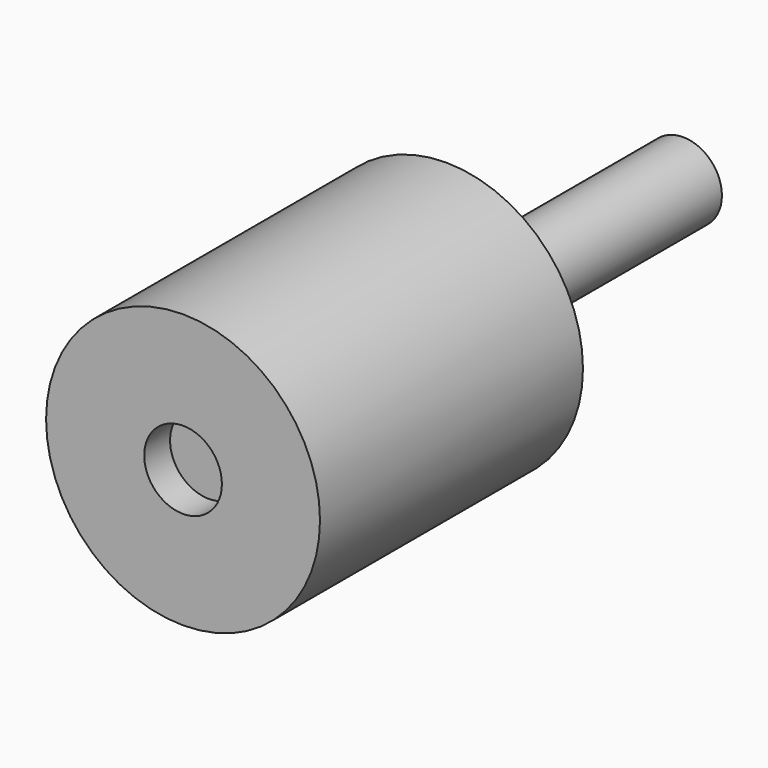
from build123d import *

# Parameters (mm, degrees)
F0_R     = 13.75
F0_R_2   = 3.9
F1_DEPTH = 33
F2_DEPTH = 29.75


with BuildPart() as f1:
    # F0 (on Front) → F1 (new body)
    with BuildSketch(Plane.XZ):
        Circle(F0_R)
        Circle(F0_R_2, mode=Mode.SUBTRACT)
    extrude(amount=F1_DEPTH)

    # F0 (on Front) → F2 (join, symmetric)
    with BuildSketch(Plane.XZ):
        Circle(F0_R_2)
    extrude(amount=F2_DEPTH, both=True)


solid = f1.part
